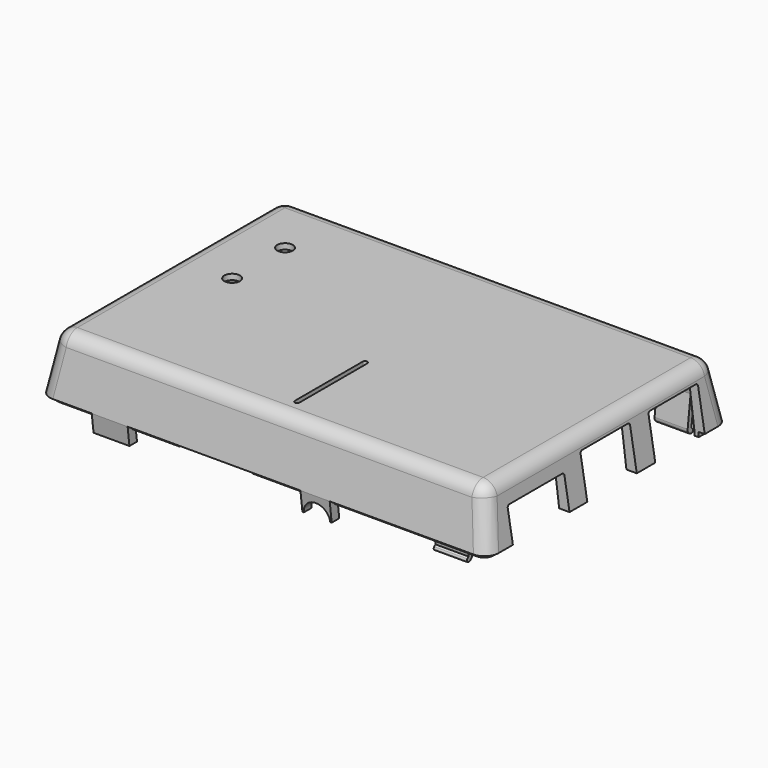
from build123d import *

# Parameters (mm, degrees)
SKETCH015_W     = 95
SKETCH015_H     = 64
SKETCH016_W     = 91
SKETCH016_H     = 60
SKETCH018_W     = 87.9
SKETCH018_H     = 56.9
SKETCH017_W     = 90.6
SKETCH017_H     = 59.6
PAD001_DEPTH    = 1
POCKET009_DEPTH = 47.501
PAD002_DEPTH    = 3.8
POCKET010_DEPTH = 7.75
PAD003_DEPTH    = 3.1
SKETCH024_R     = 2.8
POCKET011_DEPTH = 32.001
PAD004_DEPTH    = 3.5
PAD005_DEPTH    = 4.5
POCKET012_DEPTH = 12.001
FILLET003_R     = 1
FILLET005_R     = 3
FILLET006_R     = 2
SKETCH034_W     = 18
SKETCH034_H     = 2
POCKET016_DEPTH = 47.501
SKETCH043_R     = 1.65
POCKET020_DEPTH = 18.404342


with BuildPart() as part:
    # Sketch015 → AdditiveLoft001 section 0
    with BuildSketch(Plane.XY):
        Rectangle(SKETCH015_W, SKETCH015_H)
    # Sketch016 → AdditiveLoft001 section 1
    with BuildSketch(Plane.XY.offset(12)):
        Rectangle(SKETCH016_W, SKETCH016_H)
    loft()

    # Sketch018 → SubtractiveLoft001 section 0
    with BuildSketch(Plane.XY.offset(10.8)):
        Rectangle(SKETCH018_W, SKETCH018_H)
    # Sketch017 → SubtractiveLoft001 section 1
    with BuildSketch(Plane.XY):
        Rectangle(SKETCH017_W, SKETCH017_H)
    loft(mode=Mode.SUBTRACT)

    # Sketch019 → Pad001 (new body)
    with BuildSketch(Plane.XY):
        Polygon((-45.3, 29.8), (45.3, 29.8), (45.3, 25.25), (46.2, 25.25), (46.2, 30.7), (-46.2, 30.7), (-46.2, -30.7), (46.2, -30.7), (46.2, -25.25), (45.3, -25.25), (45.3, -29.8), (-45.3, -29.8), align=None)
    extrude(amount=-PAD001_DEPTH)

    # Sketch020 → Pocket009 (cut, through all)
    with BuildSketch(Plane.YZ):
        with BuildLine():
            Line((-24.75, 7), (-10.75, 7))
            ThreePointArc((-10.25, 6.5), (-10.396447, 6.853553), (-10.75, 7))
            Line((-10.25, 6.5), (-10.25, -1.5))
            Line((-10.25, -1.5), (-25.25, -1.5))
            Line((-25.25, -1.5), (-25.25, 6.5))
            ThreePointArc((-24.75, 7), (-25.103553, 6.853553), (-25.25, 6.5))
        make_face()
        with BuildLine():
            Line((-5.05, 9), (7.05, 9))
            ThreePointArc((7.55, 8.5), (7.403553, 8.853553), (7.05, 9))
            Line((7.55, 8.5), (7.55, -1.5))
            Line((7.55, -1.5), (-5.55, -1.5))
            Line((-5.55, -1.5), (-5.55, 8.5))
            ThreePointArc((-5.05, 9), (-5.403553, 8.853553), (-5.55, 8.5))
        make_face()
        with BuildLine():
            Line((12.95, 9), (25.05, 9))
            ThreePointArc((25.55, 8.5), (25.403553, 8.853553), (25.05, 9))
            Line((25.55, 8.5), (25.55, -1.5))
            Line((25.55, -1.5), (12.45, -1.5))
            Line((12.45, -1.5), (12.45, 8.5))
            ThreePointArc((12.95, 9), (12.596447, 8.853553), (12.45, 8.5))
        make_face()
    extrude(amount=POCKET009_DEPTH, mode=Mode.SUBTRACT)

    # Sketch021 → Pad002 (join, symmetric)
    with BuildSketch(Plane.YZ.offset(-32.5)):
        Polygon((-32, 0), (-31.523991, -3.8), (-29.523991, -3.8), (-30, 0), align=None)
    extrude(amount=PAD002_DEPTH, both=True)

    # Sketch022 → Pocket010 (cut, symmetric)
    with BuildSketch(Plane.YZ.offset(-11)):
        Polygon((-32, 0), (-31.812102, -1.5), (-29.612102, -1.5), (-29.8, 0), align=None)
    extrude(amount=POCKET010_DEPTH, both=True, mode=Mode.SUBTRACT)

    # Sketch023 → Pad003 (join, symmetric)
    with BuildSketch(Plane.YZ.offset(11)):
        Polygon((-32, 0), (-31.473884, -4.2), (-29.473884, -4.2), (-30, 0), align=None)
    extrude(amount=PAD003_DEPTH, both=True)

    # Sketch024 → Pocket011 (cut, through all)
    with BuildSketch(Plane.XZ):
        with Locations((11, -4.2)):
            Circle(SKETCH024_R)
    extrude(amount=POCKET011_DEPTH, mode=Mode.SUBTRACT)

    # Sketch025 → Pad004 (join, symmetric)
    with BuildSketch(Plane.YZ.offset(38)):
        with BuildLine():
            Line((-29.831612, -2.703397), (-29.5, -2.403341))
            Line((-29.5, -2.403341), (-30.615282, 6.5))
            Line((-30.615282, 6.5), (-29.607467, 6.5))
            Line((-29.607467, 6.5), (-28.507755, -2.279047))
            ThreePointArc((-29.605391, -3.397772), (-28.786197, -3.103688), (-28.507755, -2.279047))
            ThreePointArc((-29.831612, -2.703397), (-29.94356, -3.123907), (-29.605391, -3.397772))
        make_face()
        with BuildLine():
            Line((29.831612, -2.703397), (29.5, -2.403341))
            Line((29.5, -2.403341), (30.615282, 6.5))
            Line((30.615282, 6.5), (29.607467, 6.5))
            Line((29.607467, 6.5), (28.507755, -2.279047))
            ThreePointArc((28.507755, -2.279047), (28.786197, -3.103688), (29.605391, -3.397772))
            ThreePointArc((29.605391, -3.397772), (29.94356, -3.123907), (29.831612, -2.703397))
        make_face()
    extrude(amount=PAD004_DEPTH, both=True)

    # Sketch026 → Pad005 (join, symmetric)
    with BuildSketch(Plane.XZ):
        with BuildLine():
            Line((-45.031612, -5.703397), (-44.7, -5.403341))
            Line((-44.7, -5.403341), (-46.191079, 6.5))
            Line((-46.191079, 6.5), (-45.183264, 6.5))
            Line((-45.183264, 6.5), (-43.707755, -5.279047))
            ThreePointArc((-44.805391, -6.397772), (-43.986197, -6.103688), (-43.707755, -5.279047))
            ThreePointArc((-45.031612, -5.703397), (-45.14356, -6.123907), (-44.805391, -6.397772))
        make_face()
    extrude(amount=PAD005_DEPTH, both=True)

    # Sketch027 → Pocket012 (cut, through all)
    with BuildSketch(Plane.XY):
        with BuildLine():
            ThreePointArc((2.5, -7.5), (2, -7), (1.5, -7.5))
            Line((1.5, -7.5), (1.5, -25.5))
            ThreePointArc((1.5, -25.5), (2, -26), (2.5, -25.5))
            Line((2.5, -25.5), (2.5, -7.5))
        make_face()
    extrude(amount=POCKET012_DEPTH, mode=Mode.SUBTRACT)

    # Fillet003
    fillet003_edges = [part.edges().sort_by_distance(p)[0] for p in [
        (43.95, 0, 10.8),
        (0, 28.45, 10.8),
        (-43.95, 0, 10.8),
        (0, -28.45, 10.8),
        (-44.625, -29.125, 5.4),
        (-45.3, -29.8, -0.5),
        (44.625, -29.125, 5.4),
        (45.3, -29.8, -0.5),
        (44.625, 29.125, 5.4),
        (45.3, 29.8, -0.5),
        (-44.625, 29.125, 5.4),
        (-45.3, 29.8, -0.5),
    ]]
    fillet(fillet003_edges, radius=FILLET003_R)

    # Fillet005
    fillet005_edges = [part.edges().sort_by_distance(p)[0] for p in [
        (45.5, 0, 12),
        (0, -30, 12),
        (-45.5, 0, 12),
        (0, 30, 12),
        (-46.5, 31, 6),
        (46.5, 31, 6),
        (46.5, -31, 6),
        (-46.5, -31, 6),
    ]]
    fillet(fillet005_edges, radius=FILLET005_R)

    # Fillet006
    fillet006_edges = [part.edges().sort_by_distance(p)[0] for p in [
        (46.2, -30.7, -0.5),
        (-46.2, -30.7, -0.5),
        (-46.2, 30.7, -0.5),
        (46.2, 30.7, -0.5),
    ]]
    fillet(fillet006_edges, radius=FILLET006_R)

    # Sketch034 → Pocket016 (cut, through all)
    with BuildSketch(Plane.YZ):
        with Locations((-16.5, -0.4)):
            Rectangle(SKETCH034_W, SKETCH034_H)
    extrude(amount=-POCKET016_DEPTH, mode=Mode.SUBTRACT)

    # Sketch043 (on Face61 of Pocket016) → Pocket020 (cut, through all)
    with BuildSketch(Plane.XY.offset(12)):
        with Locations((-34, 16.3)):
            Circle(SKETCH043_R)
        with Locations((-34, 2.3)):
            Circle(SKETCH043_R)
    extrude(amount=-POCKET020_DEPTH, mode=Mode.SUBTRACT)


with BuildPart() as part_1:
    # Body001 placement: moved
    add(part.part.moved(Location((0, 0, 16))))


solid = part_1.part
